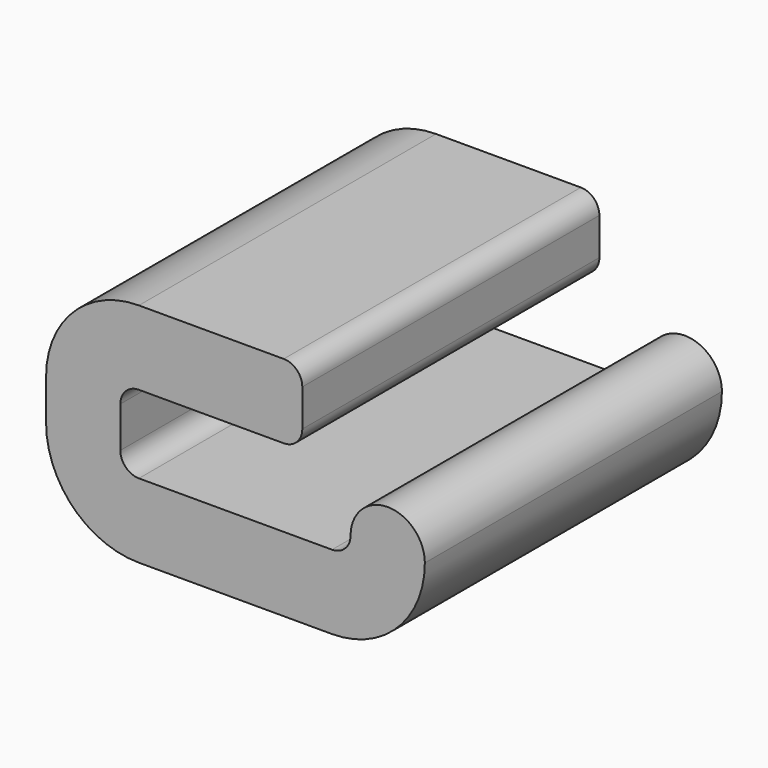
from build123d import *

# Parameters (mm, degrees)
PAD_DEPTH = 10


with BuildPart() as part:
    # Sketch (on XZ_Plane of Origin) → Pad (new body)
    with BuildSketch(Plane.XZ):
        with BuildLine():
            Line((-2.45, 0.55), (-2.45, -0.55))
            ThreePointArc((-2.45, -0.55), (-2.303553, -0.903553), (-1.95, -1.05))
            Line((-1.95, -1.05), (1.95, -1.05))
            Line((3.25, -1.05), (1.95, -1.05))
            ThreePointArc((3.25, -1.05), (3.603553, -0.903553), (3.75, -0.55))
            ThreePointArc((5.75, -0.55), (4.75, 0.45), (3.75, -0.55))
            ThreePointArc((3.25, -3.05), (5.017767, -2.317767), (5.75, -0.55))
            Line((1.95, -3.05), (3.25, -3.05))
            Line((-1.95, -3.05), (1.95, -3.05))
            ThreePointArc((-4.45, -0.55), (-3.717767, -2.317767), (-1.95, -3.05))
            Line((-4.45, 0.55), (-4.45, -0.55))
            ThreePointArc((-1.95, 3.05), (-3.717767, 2.317767), (-4.45, 0.55))
            Line((1.95, 3.05), (-1.95, 3.05))
            ThreePointArc((2.45, 2.55), (2.303553, 2.903553), (1.95, 3.05))
            Line((2.45, 2.55), (2.45, 1.55))
            ThreePointArc((1.95, 1.05), (2.303553, 1.196447), (2.45, 1.55))
            Line((1.95, 1.05), (-1.95, 1.05))
            ThreePointArc((-1.95, 1.05), (-2.303553, 0.903553), (-2.45, 0.55))
        make_face()
    extrude(amount=PAD_DEPTH)


solid = part.part
